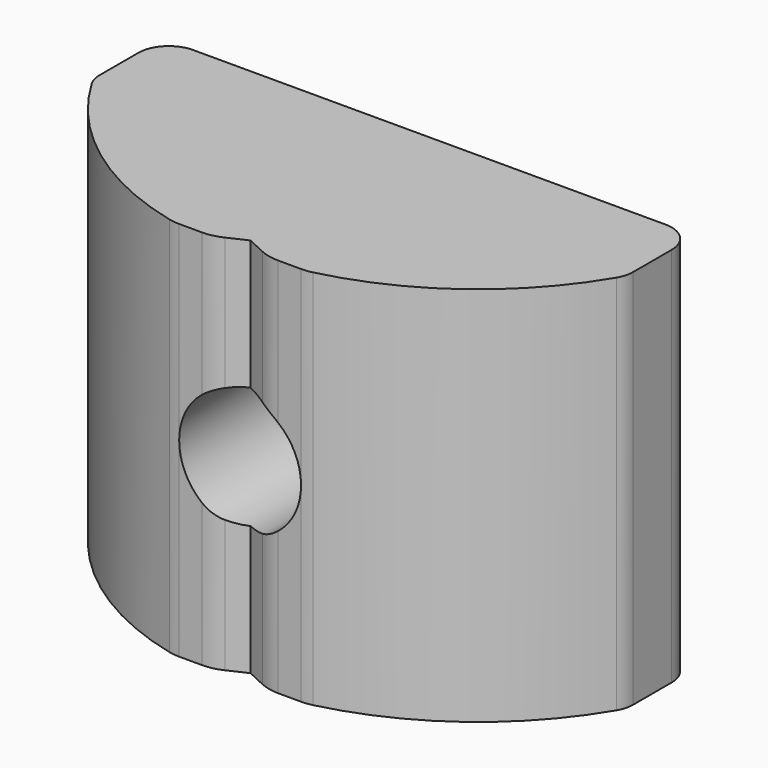
from build123d import *

# Parameters (mm, degrees)
PAD_DEPTH         = 12.5
SKETCH001_R       = 4
POCKET_DEPTH      = 0.001
POCKET_DEPTH_BACK = -19.523712


with BuildPart() as part:
    # Sketch → Pad (new body, symmetric)
    with BuildSketch(Plane.XY):
        with BuildLine():
            ThreePointArc((-17.222222, -10.168336), (-11.903544, -16.07189), (-4.705882, -19.438484))
            ThreePointArc((-4.705882, -19.438484), (-4.355445, -19.50158), (-4, -19.522712))
            Line((-4, -19.522712), (-2.5, -19.522712))
            ThreePointArc((-2.5, -19.522712), (-1.850681, -19.4516), (-1.232145, -19.241635))
            Line((-1.232145, -19.241635), (0, -18.667076))
            Line((0, -18.667076), (1.232145, -19.241635))
            ThreePointArc((1.232145, -19.241635), (1.850681, -19.4516), (2.5, -19.522712))
            Line((2.5, -19.522712), (4, -19.522712))
            ThreePointArc((4, -19.522712), (4.355445, -19.50158), (4.705882, -19.438484))
            ThreePointArc((4.705882, -19.438484), (11.903544, -16.07189), (17.222222, -10.168336))
            ThreePointArc((17.222222, -10.168336), (17.429306, -9.678549), (17.5, -9.151503))
            Line((17.5, -9.151503), (17.5, -6))
            ThreePointArc((17.5, -6), (16.914214, -4.585786), (15.5, -4))
            Line((-15.5, -4), (15.5, -4))
            ThreePointArc((-15.5, -4), (-16.914214, -4.585786), (-17.5, -6))
            Line((-17.5, -9.151503), (-17.5, -6))
            ThreePointArc((-17.5, -9.151503), (-17.429306, -9.678549), (-17.222222, -10.168336))
        make_face()
    extrude(amount=PAD_DEPTH, both=True)

    # Sketch001 → Pocket (cut, two sides)
    with BuildSketch(Plane.XZ) as pocket_sk:
        Circle(SKETCH001_R)
    extrude(amount=-POCKET_DEPTH, mode=Mode.SUBTRACT)
    extrude(pocket_sk.sketch, amount=-POCKET_DEPTH_BACK, mode=Mode.SUBTRACT)


solid = part.part
